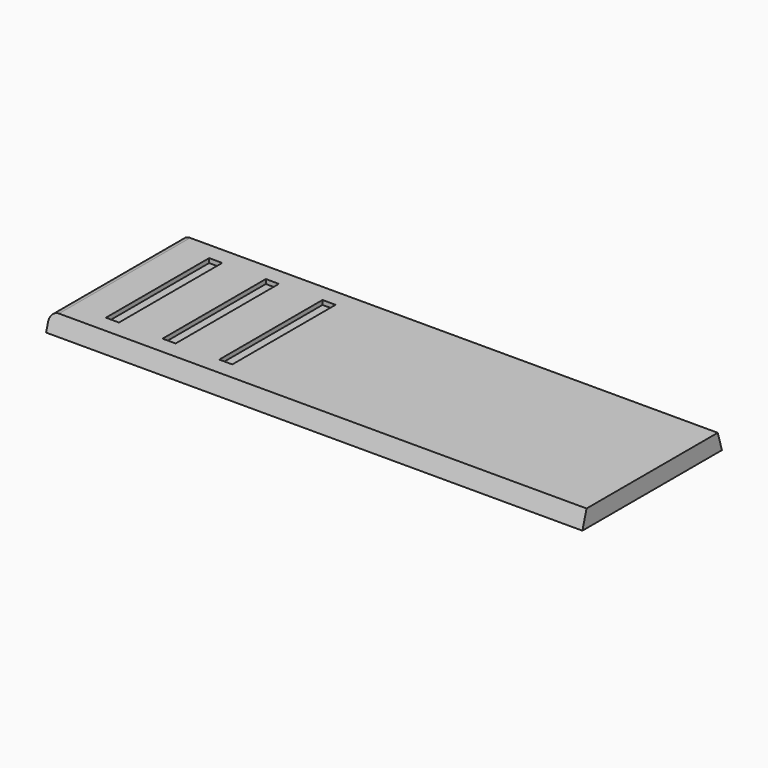
from build123d import *

# Parameters (mm, degrees)
F1_DEPTH = 123
F2_W     = 3
F2_H     = 29.6
F3_DEPTH = 1
F8_R     = 2


with BuildPart() as f1:
    # F0 (on Right) → F1 (new body)
    with BuildSketch(Plane.YZ):
        Polygon((22.2334366549, 9.1408645862), (-15.3665633451, 9.1408645862), (-16.5665633451, 5.1408645862), (23.4334366549, 5.1408645862), align=None)
    extrude(amount=F1_DEPTH)

    # F2 (on face) → F3 (cut)
    with BuildSketch(Plane.XY.offset(9.1408645862)):
        with Locations((11.0555046573, 3.4334366549)):
            Rectangle(F2_W, F2_H)
        with Locations((24.0555046573, 3.4334366549)):
            Rectangle(F2_W, F2_H)
        with Locations((37.0555046573, 3.4334366549)):
            Rectangle(F2_W, F2_H)
    extrude(amount=-F3_DEPTH, mode=Mode.SUBTRACT)

    # F6 (on offset) → F7 (revolve)
    with BuildSketch(Plane.YZ.offset(8)):
        with BuildLine():
            Line((3.4577122118, 4.1411592809), (3.4334366549, 5.1408645862))
            Line((3.4334366549, 5.1408645862), (-1.8165622786, 5.1375182229))
            ThreePointArc((-1.8165622786, 5.1375182229), (0.769235658, 4.3675716263), (3.4577122118, 4.1411592809))
        make_face()
    revolve(axis=Axis((8, 3.4455744333, 4.6410119335), (0, 0.0242755569, -0.9997053052)))

    # F8
    f8_edges = [f1.edges().sort_by_distance(p)[0] for p in [
        (0, 3.433437, 9.140865),
    ]]
    fillet(f8_edges, radius=F8_R)


solid = f1.part
